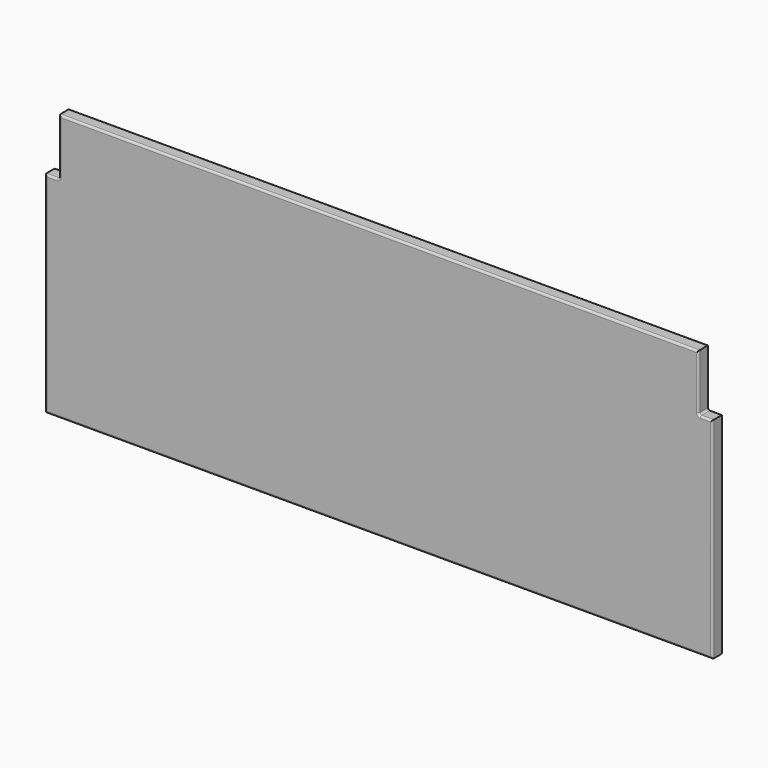
from build123d import *

# Parameters (mm, degrees)
F1_DEPTH = 20
F2_R     = 3


with BuildPart() as f1:
    # F0 (on Front) → F1 (new body)
    with BuildSketch(Plane.XZ):
        Polygon((0, 315), (0, 0), (1000, 0), (1000, 315), (979, 315), (979, 400), (21, 400), (21, 315), align=None)
    extrude(amount=F1_DEPTH)

    # F2
    f2_edges = [f1.edges().sort_by_distance(p)[0] for p in [
        (0, -20, 157.5),
        (500, -20, 0),
        (1000, -20, 157.5),
        (989.5, -20, 315),
        (979, -20, 357.5),
        (500, -20, 400),
        (21, -20, 357.5),
        (10.5, -20, 315),
        (0, 0, 157.5),
        (500, 0, 0),
        (1000, 0, 157.5),
        (989.5, 0, 315),
        (979, 0, 357.5),
        (500, 0, 400),
        (21, 0, 357.5),
        (10.5, 0, 315),
        (21, -10, 315),
        (979, -10, 315),
    ]]
    fillet(f2_edges, radius=F2_R)


solid = f1.part
